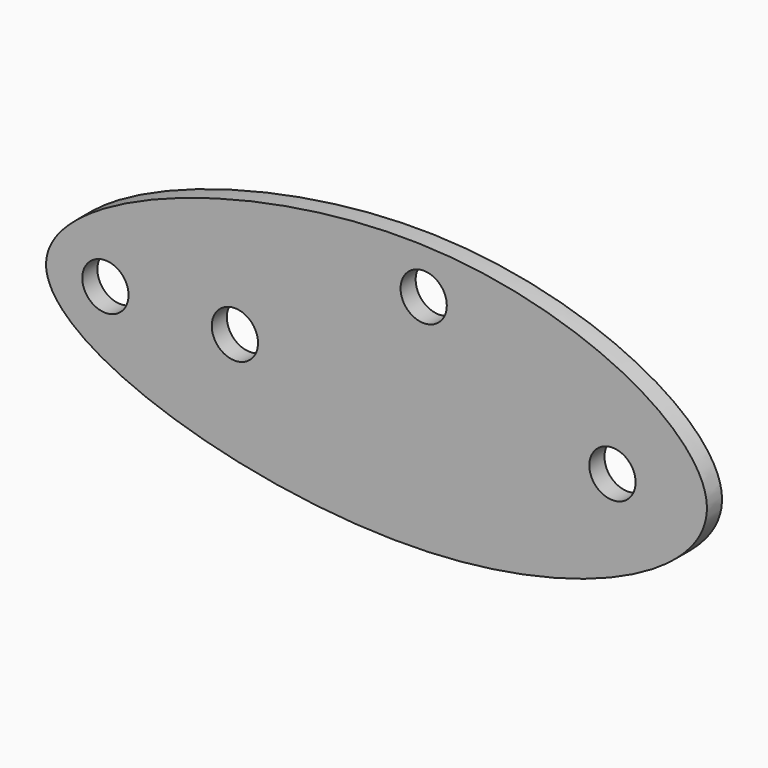
from build123d import *

# Parameters (mm, degrees)
F2_DEPTH = 2
F0_R     = 2.45
F3_DEPTH = 25


with BuildPart() as f2:
    # F1 (on Front) → F2 (new body)
    with BuildSketch(Plane.XZ):
        with BuildLine():
            add(Edge.make_bspline(
                [(-40, 0), (-40.0623030611, 7.4402685777), (0.7617790212, 22.5630186545), (43.7394329257, -0.4539542473), (0.6899262616, -20.2709022653), (-39.937982838, -7.4061263351), (-40, 0)],
                knots=[0, 0, 0, 0, 0.2659515038, 0.5014924246, 0.7352689065, 1, 1, 1, 1], degree=3))
        make_face()
    extrude(amount=F2_DEPTH)

    # F0 (on Front) → F3 (cut)
    with BuildSketch(Plane.XZ):
        with Locations((-20, 0)):
            Circle(F0_R)
        with Locations((0, 10)):
            Circle(F0_R)
        with Locations((20, 0)):
            Circle(F0_R)
        with Locations((-33.7145663798, 0)):
            Circle(F0_R)
    extrude(amount=F3_DEPTH, mode=Mode.SUBTRACT)


solid = f2.part
